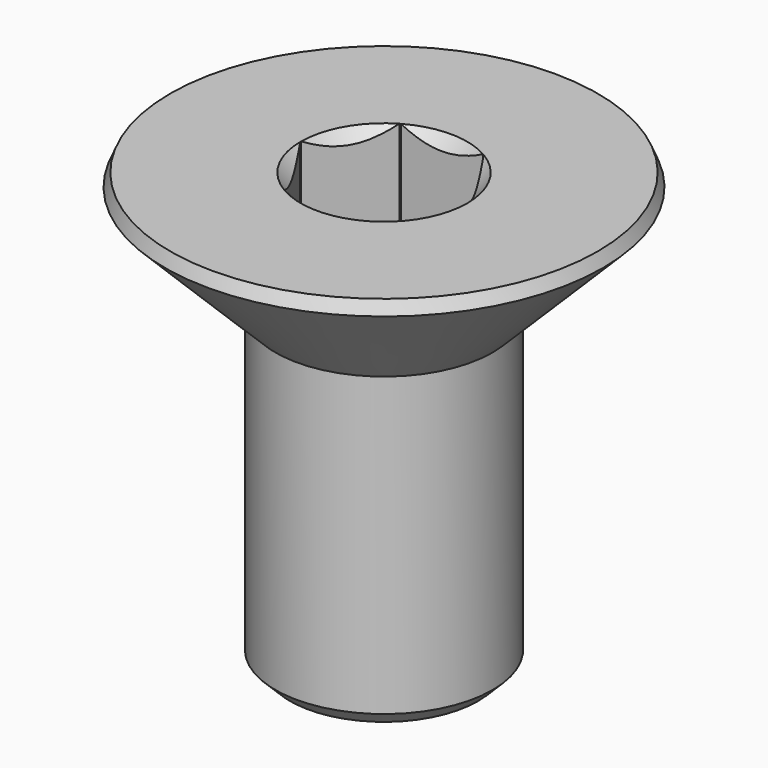
from build123d import *

# Parameters (mm, degrees)
SKETCH001_R     = 2.15
POCKET_DEPTH    = 3.119566
CHAMFER_SIZE    = 0.25
CHAMFER001_SIZE = 0.2


with BuildPart() as pocket:
    # Sketch003 → Revolution001 (revolve)
    with BuildSketch(Plane.XZ):
        Polygon((0, -2.118566), (1.15, -1.7), (1.15, 1), (0, 1), align=None)
    revolve(axis=Axis((0, 0, 0), (0, 0, 1)))

    # Sketch001 → Pocket (cut, through all)
    with BuildSketch(Plane(origin=(0, 0, 1), x_dir=(-1, 0, 0), z_dir=(0, 0, 1))):
        Circle(SKETCH001_R)
        Polygon((-0.57735, 1), (0.57735, 1), (1.154701, 0), (0.57735, -1), (-0.57735, -1), (-1.154701, 0), align=None, mode=Mode.SUBTRACT)
    extrude(amount=-POCKET_DEPTH, mode=Mode.SUBTRACT)


with BuildPart() as chamfer001:
    # Sketch → Revolution (revolve)
    with BuildSketch(Plane.XZ):
        Polygon((1.15, 0), (3.199999, 0), (1.5, -1.7), (1.5, -6), (0, -6), (0, -1.150001), align=None)
    revolve(axis=Axis((0, 0, 0), (0, 0, 1)))

    # Cut: cut Pocket
    add(pocket.part, mode=Mode.SUBTRACT)

    # Chamfer
    chamfer_edges = [chamfer001.edges().sort_by_distance(p)[0] for p in [
        (-3.199999, 0, 0),
    ]]
    chamfer(chamfer_edges, length=CHAMFER_SIZE)

    # Chamfer001
    chamfer001_edges = [chamfer001.edges().sort_by_distance(p)[0] for p in [
        (-1.5, 0, -6),
    ]]
    chamfer(chamfer001_edges, length=CHAMFER001_SIZE)


solid = chamfer001.part
